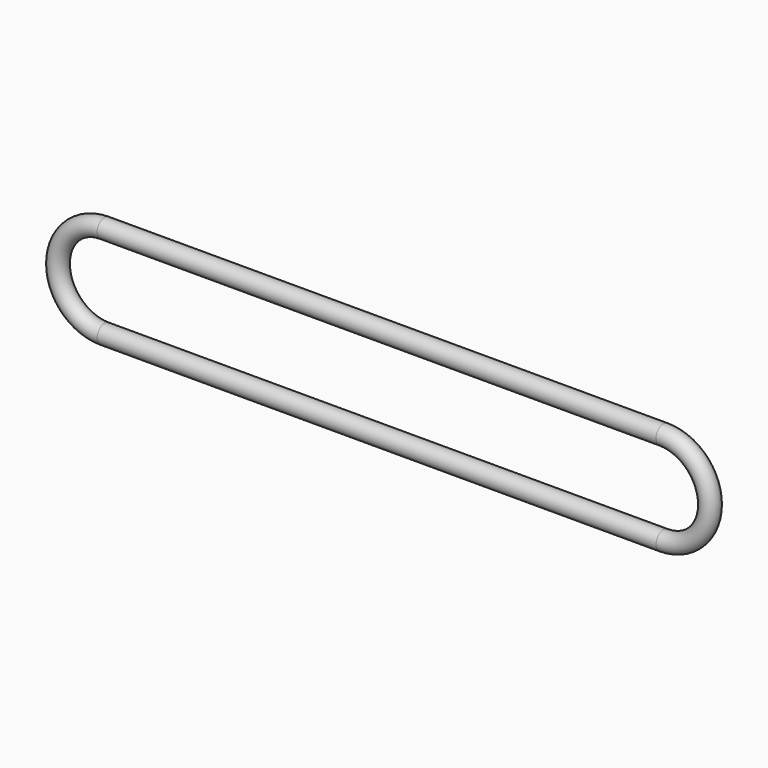
from build123d import *

# Parameters (mm, degrees)
F1_R = 5


with BuildPart() as f2:
    # F2: sweep along a path in F0
    with BuildLine(Plane.XZ) as f2_path:
        Line((-150, 25), (150, 25))
        ThreePointArc((150, 25), (175, 0), (150, -25))
        Line((150, -25), (-150, -25))
        ThreePointArc((-150, -25), (-175, 0), (-150, 25))
    # F1 (on Right) → F2 (sweep)
    with BuildSketch(Plane.YZ):
        with Locations((0, 25)):
            Circle(F1_R)
    sweep(path=f2_path.line)


solid = f2.part
